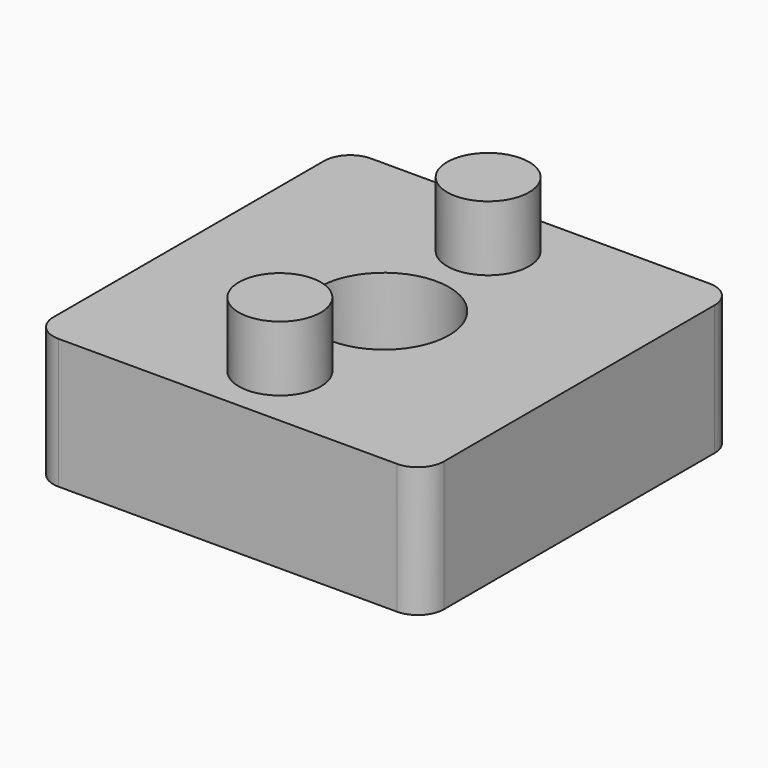
from build123d import *

# Parameters (mm, degrees)
SKETCH005_W    = 30
SKETCH005_H    = 30
PAD003_DEPTH   = 10
SKETCH006_R    = 3.15
PAD004_DEPTH   = 5
SKETCH007_R    = 3
HOLE002_DEPTH  = 25
SKETCH008_R    = 5
HOLE003_DEPTH  = 6
HOLE003_TIPS_R = 5
FILLET_R       = 2


with BuildPart() as part:
    # Sketch005 → Pad003 (new body)
    with BuildSketch(Plane.XY):
        Rectangle(SKETCH005_W, SKETCH005_H)
    extrude(amount=PAD003_DEPTH)

    # Sketch006 (on Face6 of Pad003) → Pad004 (join)
    with BuildSketch(Plane.XY.offset(10)):
        with Locations((0, 10)):
            Circle(SKETCH006_R)
        with Locations((0, -10)):
            Circle(SKETCH006_R)
    extrude(amount=PAD004_DEPTH)

    # Sketch007 (on Face5 of Pad004) → Hole002 (cut)
    with BuildSketch(Plane.XY.offset(10)):
        Circle(SKETCH007_R)
    extrude(amount=-HOLE002_DEPTH, mode=Mode.SUBTRACT)

    # Sketch008 (on Face5 of Hole002) → Hole003 (cut)
    with BuildSketch(Plane.XY.offset(10)):
        Circle(SKETCH008_R)
    extrude(amount=-HOLE003_DEPTH, mode=Mode.SUBTRACT)

    # Hole003 tips → Hole003 tip 1 section 0
    with BuildSketch(Plane.XY.offset(4), mode=Mode.PRIVATE) as hole003_tip_1_s0:
        Circle(HOLE003_TIPS_R)
    loft([hole003_tip_1_s0.sketch, Vertex(0, 0, 0.995697)], mode=Mode.SUBTRACT)

    # Fillet
    fillet_edges = [part.edges().sort_by_distance(p)[0] for p in [
        (15, -15, 5),
        (-15, -15, 5),
        (-15, 15, 5),
        (15, 15, 5),
    ]]
    fillet(fillet_edges, radius=FILLET_R)


with BuildPart() as part_1:
    # Body001 placement: moved
    add(part.part.moved(Location((0, -20, -10))))


solid = part_1.part
